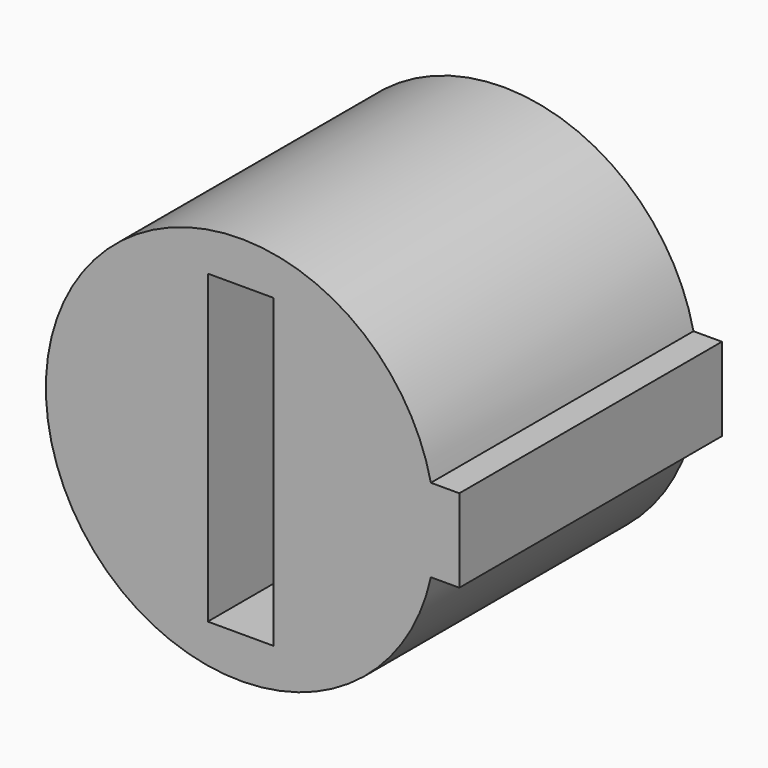
from build123d import *

# Parameters (mm, degrees)
PAD_DEPTH    = 15
SKETCH001_W  = 3
SKETCH001_H  = 14
POCKET_DEPTH = 13


with BuildPart() as part:
    # Sketch → Pad (new body)
    with BuildSketch(Plane.XZ):
        with BuildLine():
            ThreePointArc((8.694826, 1.9), (-8.9, 0), (8.694826, -1.9))
            Line((9.994826, -1.9), (8.694826, -1.9))
            Line((9.994826, 1.9), (9.994826, -1.9))
            Line((8.694826, 1.9), (9.994826, 1.9))
        make_face()
    extrude(amount=PAD_DEPTH)

    # Sketch001 (on Face6 of Pad) → Pocket (cut)
    with BuildSketch(Plane.XZ.offset(15)):
        Rectangle(SKETCH001_W, SKETCH001_H)
    extrude(amount=-POCKET_DEPTH, mode=Mode.SUBTRACT)


solid = part.part
